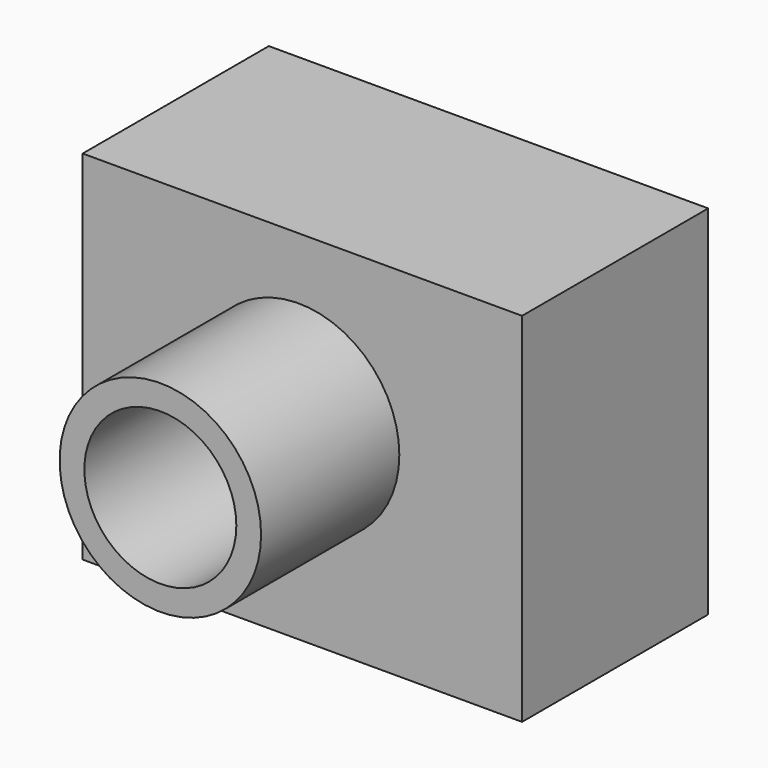
from build123d import *

# Parameters (mm, degrees)
F0_W     = 93.6522595584
F0_H     = 49.5914518833
F1_DEPTH = 76.2
F2_R     = 16.194136499
F3_DEPTH = 50.8
F4_R     = 21.4719665267
F4_R_2   = 16.194136499
F5_DEPTH = 36.83


with BuildPart() as f1:
    # F0 (on Top) → F1 (new body)
    with BuildSketch(Plane.XY):
        with Locations((-1.5670154244, 8.2959681749)):
            Rectangle(F0_W, F0_H)
    extrude(amount=F1_DEPTH)

    # F2 (on face) → F3 (cut)
    with BuildSketch(Plane.XZ.offset(16.4997577667)):
        with Locations((-2.3752143607, 41.5871702135)):
            Circle(F2_R)
    extrude(amount=-F3_DEPTH, mode=Mode.SUBTRACT)

    # F4 (on face) → F5 (join)
    with BuildSketch(Plane.XZ.offset(16.4997577667)):
        with Locations((-2.3752143607, 41.5871702135)):
            Circle(F4_R)
        with Locations((-2.3752143607, 41.5871702135)):
            Circle(F4_R_2, mode=Mode.SUBTRACT)
    extrude(amount=F5_DEPTH)


solid = f1.part
